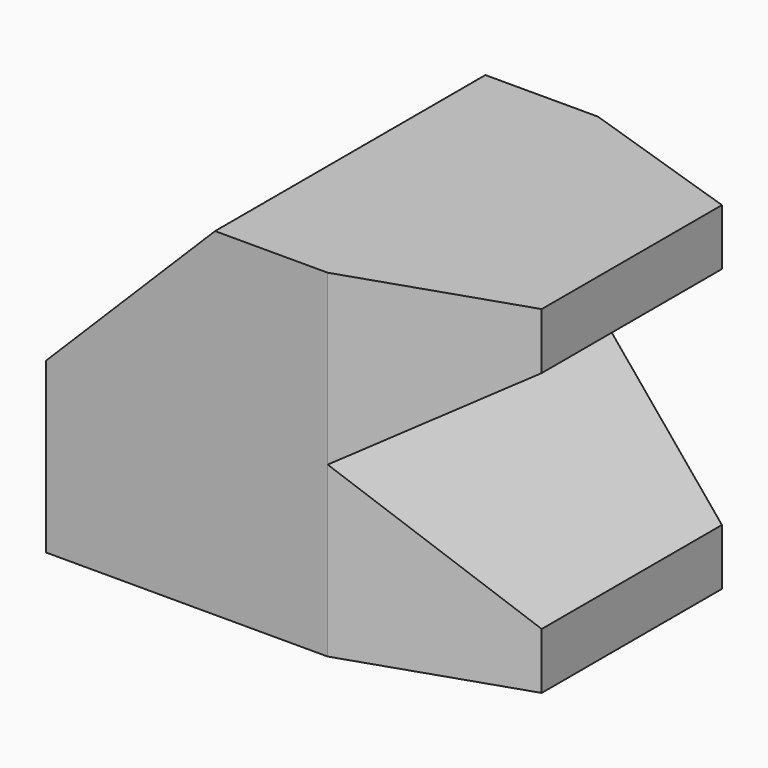
from build123d import *

# Parameters (mm, degrees)
PAD_DEPTH         = 30
PAD001_DEPTH      = 60
POCKET_DEPTH      = 30.001
POCKET_DEPTH_BACK = -30.001
SKETCH003_W       = 20
SKETCH003_H       = 20
POCKET001_DEPTH   = 60.001


with BuildPart() as part:
    # Sketch → Pad (new body, symmetric)
    with BuildSketch(Plane.XZ):
        Polygon((0, 30), (0, 0), (50, 0), (50, 60), (30, 60), align=None)
    extrude(amount=PAD_DEPTH, both=True)

    # Sketch001 → Pad001 (join)
    with BuildSketch(Plane.XY):
        Polygon((50, 30), (50, -30), (80, -20), (80, 20), align=None)
    extrude(amount=PAD001_DEPTH)

    # Sketch002 → Pocket (cut, two sides)
    with BuildSketch(Plane.XZ) as pocket_sk:
        Polygon((80, 50), (80, 10), (50, 30), align=None)
    extrude(amount=-POCKET_DEPTH, mode=Mode.SUBTRACT)
    extrude(pocket_sk.sketch, amount=-POCKET_DEPTH_BACK, mode=Mode.SUBTRACT)

    # Sketch003 → Pocket001 (cut, through all)
    with BuildSketch(Plane.XY):
        with Locations((10, 0)):
            Rectangle(SKETCH003_W, SKETCH003_H)
    extrude(amount=POCKET001_DEPTH, mode=Mode.SUBTRACT)


solid = part.part
